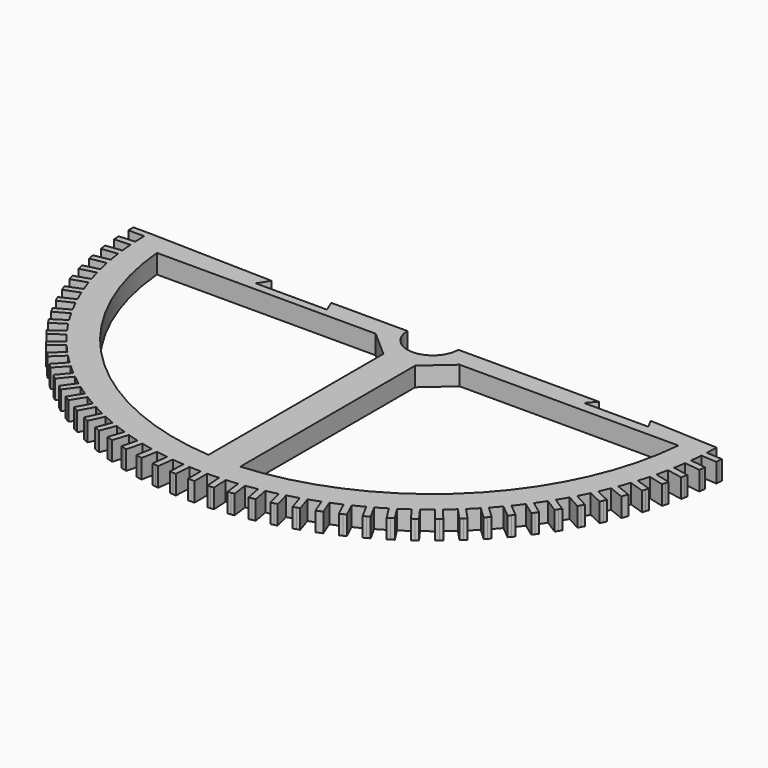
from build123d import *

# Parameters (mm, degrees)
F1_DEPTH = 3


with BuildPart() as f1:
    # F0 (on Top) → F1 (new body)
    with BuildSketch(Plane.XY):
        with BuildLine():
            Line((-25.372492, 0), (-44.997222, 0.5))
            ThreePointArc((-44.997222, 0.5), (-45, 0), (-44.997222, -0.5))
            ThreePointArc((-44.997222, -0.5), (-44.977795, -1.413484), (-44.939826, -2.326386))
            ThreePointArc((-44.939826, -2.326386), (-44.911203, -2.825573), (-44.877035, -3.324412))
            ThreePointArc((-44.877035, -3.324412), (-44.800288, -4.234874), (-44.705072, -5.14359))
            ThreePointArc((-44.705072, -5.14359), (-44.645162, -5.639996), (-44.579739, -6.135705))
            ThreePointArc((-44.579739, -6.135705), (-44.445975, -7.039551), (-44.293888, -7.940495))
            ThreePointArc((-44.293888, -7.940495), (-44.202926, -8.432159), (-44.106507, -8.922782))
            ThreePointArc((-44.106507, -8.922782), (-43.916254, -9.816446), (-43.707897, -10.706063))
            ThreePointArc((-43.707897, -10.706063), (-43.586242, -11.191045), (-43.459207, -11.674646))
            ThreePointArc((-43.459207, -11.674646), (-43.213216, -12.5546), (-42.94941, -13.429378))
            ThreePointArc((-42.94941, -13.429378), (-42.797543, -13.905765), (-42.640393, -14.380435))
            ThreePointArc((-42.640393, -14.380435), (-42.339635, -15.243206), (-42.021421, -16.099694))
            ThreePointArc((-42.021421, -16.099694), (-41.839942, -16.565605), (-41.653297, -17.029471))
            ThreePointArc((-41.653297, -17.029471), (-41.298958, -17.871655), (-40.927594, -18.706472))
            ThreePointArc((-40.927594, -18.706472), (-40.717217, -19.160068), (-40.501814, -19.611299))
            ThreePointArc((-40.501814, -19.611299), (-40.095294, -20.429572), (-39.672243, -21.239424))
            ThreePointArc((-39.672243, -21.239424), (-39.433801, -21.678915), (-39.19049, -22.11573))
            ThreePointArc((-39.19049, -22.11573), (-38.733391, -22.906864), (-38.260325, -23.688553))
            ThreePointArc((-38.260325, -23.688553), (-37.994757, -24.112206), (-37.724498, -24.532881))
            ThreePointArc((-37.724498, -24.532881), (-37.218626, -25.293752), (-36.69741, -26.044195))
            ThreePointArc((-36.69741, -26.044195), (-36.405765, -26.450336), (-36.109625, -26.853212))
            ThreePointArc((-36.109625, -26.853212), (-35.556976, -27.580817), (-34.989668, -28.297052))
            ThreePointArc((-34.989668, -28.297052), (-34.673096, -28.68408), (-34.352244, -29.067565))
            ThreePointArc((-34.352244, -29.067565), (-33.754998, -29.759034), (-33.143837, -30.438234))
            ThreePointArc((-33.143837, -30.438234), (-32.803588, -30.80462), (-32.45929, -31.167203))
            ThreePointArc((-32.45929, -31.167203), (-31.819805, -31.819805), (-31.167203, -32.45929))
            ThreePointArc((-31.167203, -32.45929), (-30.80462, -32.803588), (-30.438234, -33.143837))
            ThreePointArc((-30.438234, -33.143837), (-29.759034, -33.754998), (-29.067565, -34.352244))
            ThreePointArc((-29.067565, -34.352244), (-28.68408, -34.673096), (-28.297052, -34.989668))
            ThreePointArc((-28.297052, -34.989668), (-27.580817, -35.556976), (-26.853212, -36.109625))
            ThreePointArc((-26.853212, -36.109625), (-26.450336, -36.405765), (-26.044195, -36.69741))
            ThreePointArc((-26.044195, -36.69741), (-25.293752, -37.218626), (-24.532881, -37.724498))
            ThreePointArc((-24.532881, -37.724498), (-24.112206, -37.994757), (-23.688553, -38.260325))
            ThreePointArc((-23.688553, -38.260325), (-22.906864, -38.733391), (-22.11573, -39.19049))
            ThreePointArc((-22.11573, -39.19049), (-21.678915, -39.433801), (-21.239424, -39.672243))
            ThreePointArc((-21.239424, -39.672243), (-20.429572, -40.095294), (-19.611299, -40.501814))
            ThreePointArc((-19.611299, -40.501814), (-19.160068, -40.717217), (-18.706472, -40.927594))
            ThreePointArc((-18.706472, -40.927594), (-17.871655, -41.298958), (-17.029471, -41.653297))
            ThreePointArc((-17.029471, -41.653297), (-16.565605, -41.839942), (-16.099694, -42.021421))
            ThreePointArc((-16.099694, -42.021421), (-15.243206, -42.339635), (-14.380435, -42.640393))
            ThreePointArc((-14.380435, -42.640393), (-13.905765, -42.797543), (-13.429378, -42.94941))
            ThreePointArc((-13.429378, -42.94941), (-12.5546, -43.213216), (-11.674646, -43.459207))
            ThreePointArc((-11.674646, -43.459207), (-11.191045, -43.586242), (-10.706063, -43.707897))
            ThreePointArc((-10.706063, -43.707897), (-9.816446, -43.916254), (-8.922782, -44.106507))
            ThreePointArc((-8.922782, -44.106507), (-8.432159, -44.202926), (-7.940495, -44.293888))
            ThreePointArc((-7.940495, -44.293888), (-7.039551, -44.445975), (-6.135705, -44.579739))
            ThreePointArc((-6.135705, -44.579739), (-5.639996, -44.645162), (-5.14359, -44.705072))
            ThreePointArc((-5.14359, -44.705072), (-4.234874, -44.800288), (-3.324412, -44.877035))
            ThreePointArc((-3.324412, -44.877035), (-2.825573, -44.911203), (-2.326386, -44.939826))
            ThreePointArc((-2.326386, -44.939826), (-1.413484, -44.977795), (-0.5, -44.997222))
            ThreePointArc((-0.5, -44.997222), (0, -45), (0.5, -44.997222))
            ThreePointArc((0.5, -44.997222), (1.413484, -44.977795), (2.326386, -44.939826))
            ThreePointArc((2.326386, -44.939826), (2.825573, -44.911203), (3.324412, -44.877035))
            ThreePointArc((3.324412, -44.877035), (4.234874, -44.800288), (5.14359, -44.705072))
            ThreePointArc((5.14359, -44.705072), (5.639996, -44.645162), (6.135705, -44.579739))
            ThreePointArc((6.135705, -44.579739), (7.039551, -44.445975), (7.940495, -44.293888))
            ThreePointArc((7.940495, -44.293888), (8.432159, -44.202926), (8.922782, -44.106507))
            ThreePointArc((8.922782, -44.106507), (9.816446, -43.916254), (10.706063, -43.707897))
            ThreePointArc((10.706063, -43.707897), (11.191045, -43.586242), (11.674646, -43.459207))
            ThreePointArc((11.674646, -43.459207), (12.5546, -43.213216), (13.429378, -42.94941))
            ThreePointArc((13.429378, -42.94941), (13.905765, -42.797543), (14.380435, -42.640393))
            ThreePointArc((14.380435, -42.640393), (15.243206, -42.339635), (16.099694, -42.021421))
            ThreePointArc((16.099694, -42.021421), (16.565605, -41.839942), (17.029471, -41.653297))
            ThreePointArc((17.029471, -41.653297), (17.871655, -41.298958), (18.706472, -40.927594))
            ThreePointArc((18.706472, -40.927594), (19.160068, -40.717217), (19.611299, -40.501814))
            ThreePointArc((19.611299, -40.501814), (20.429572, -40.095294), (21.239424, -39.672243))
            ThreePointArc((21.239424, -39.672243), (21.678915, -39.433801), (22.11573, -39.19049))
            ThreePointArc((22.11573, -39.19049), (22.906864, -38.733391), (23.688553, -38.260325))
            ThreePointArc((23.688553, -38.260325), (24.112206, -37.994757), (24.532881, -37.724498))
            ThreePointArc((24.532881, -37.724498), (25.293752, -37.218626), (26.044195, -36.69741))
            ThreePointArc((26.044195, -36.69741), (26.450336, -36.405765), (26.853212, -36.109625))
            ThreePointArc((26.853212, -36.109625), (27.580817, -35.556976), (28.297052, -34.989668))
            ThreePointArc((28.297052, -34.989668), (28.68408, -34.673096), (29.067565, -34.352244))
            ThreePointArc((29.067565, -34.352244), (29.759034, -33.754998), (30.438234, -33.143837))
            ThreePointArc((30.438234, -33.143837), (30.80462, -32.803588), (31.167203, -32.45929))
            ThreePointArc((31.167203, -32.45929), (31.819805, -31.819805), (32.45929, -31.167203))
            ThreePointArc((32.45929, -31.167203), (32.803588, -30.80462), (33.143837, -30.438234))
            ThreePointArc((33.143837, -30.438234), (33.754998, -29.759034), (34.352244, -29.067565))
            ThreePointArc((34.352244, -29.067565), (34.673096, -28.68408), (34.989668, -28.297052))
            ThreePointArc((34.989668, -28.297052), (35.556976, -27.580817), (36.109625, -26.853212))
            ThreePointArc((36.109625, -26.853212), (36.405765, -26.450336), (36.69741, -26.044195))
            ThreePointArc((36.69741, -26.044195), (37.218626, -25.293752), (37.724498, -24.532881))
            ThreePointArc((37.724498, -24.532881), (37.994757, -24.112206), (38.260325, -23.688553))
            ThreePointArc((38.260325, -23.688553), (38.733391, -22.906864), (39.19049, -22.11573))
            ThreePointArc((39.19049, -22.11573), (39.433801, -21.678915), (39.672243, -21.239424))
            ThreePointArc((39.672243, -21.239424), (40.095294, -20.429572), (40.501814, -19.611299))
            ThreePointArc((40.501814, -19.611299), (40.717217, -19.160068), (40.927594, -18.706472))
            ThreePointArc((40.927594, -18.706472), (41.298958, -17.871655), (41.653297, -17.029471))
            ThreePointArc((41.653297, -17.029471), (41.839942, -16.565605), (42.021421, -16.099694))
            ThreePointArc((42.021421, -16.099694), (42.339635, -15.243206), (42.640393, -14.380435))
            ThreePointArc((42.640393, -14.380435), (42.797543, -13.905765), (42.94941, -13.429378))
            ThreePointArc((42.94941, -13.429378), (43.213216, -12.5546), (43.459207, -11.674646))
            ThreePointArc((43.459207, -11.674646), (43.586242, -11.191045), (43.707897, -10.706063))
            ThreePointArc((43.707897, -10.706063), (43.916254, -9.816446), (44.106507, -8.922782))
            ThreePointArc((44.106507, -8.922782), (44.202926, -8.432159), (44.293888, -7.940495))
            ThreePointArc((44.293888, -7.940495), (44.445975, -7.039551), (44.579739, -6.135705))
            ThreePointArc((44.579739, -6.135705), (44.645162, -5.639996), (44.705072, -5.14359))
            ThreePointArc((44.705072, -5.14359), (44.800288, -4.234874), (44.877035, -3.324412))
            ThreePointArc((44.877035, -3.324412), (44.911203, -2.825573), (44.939826, -2.326386))
            ThreePointArc((44.939826, -2.326386), (44.977795, -1.413484), (44.997222, -0.5))
            Line((44.997222, -0.5), (34.223758, 0))
            Line((34.223758, 0), (35.025112, -1.40535))
            Line((35.025112, -1.40535), (24.885764, -1.40535))
            Line((24.885764, -1.40535), (26.098117, 0))
            Line((26.098117, 0), (4, 0))
            ThreePointArc((4, 0), (0, -4), (-4, 0))
            Line((-4, 0), (-15.9973, 0))
            Line((-15.9973, 0), (-15.265819, -1.740639))
            Line((-15.265819, -1.740639), (-26.466612, -1.740639))
            Line((-26.466612, -1.740639), (-25.372492, 0))
        make_face()
        with BuildLine():
            Line((-40.997222, -3), (-6.6, -3))
            Line((-6.6, -3), (-2.5, -6.6))
            Line((-2.5, -6.6), (-2.5, -41))
            ThreePointArc((-2.5, -41), (-28.724019, -29.06668), (-40.997222, -3))
        make_face(mode=Mode.SUBTRACT)
        with BuildLine():
            Line((2.5, -41), (2.5, -6.6))
            Line((2.5, -6.6), (6.6, -3))
            Line((6.6, -3), (40.997222, -3))
            ThreePointArc((40.997222, -3), (28.724019, -29.06668), (2.5, -41))
        make_face(mode=Mode.SUBTRACT)
        with BuildLine():
            ThreePointArc((-44.997222, -0.5), (-45, 0), (-44.997222, 0.5))
            Line((-44.997222, 0.5), (-47.5, 0.5))
            Line((-47.5, 0.5), (-47.5, 0))
            Line((-47.5, 0), (-47.5, -0.5))
            Line((-47.5, -0.5), (-44.997222, -0.5))
        make_face()
        with BuildLine():
            ThreePointArc((-44.877035, -3.324412), (-44.911203, -2.825573), (-44.939826, -2.326386))
            Line((-44.939826, -2.326386), (-47.437665, -2.483536))
            Line((-47.437665, -2.483536), (-47.40627, -2.98255))
            Line((-47.40627, -2.98255), (-47.374874, -3.481563))
            Line((-47.374874, -3.481563), (-44.877035, -3.324412))
        make_face()
        with BuildLine():
            ThreePointArc((-44.579739, -6.135705), (-44.645162, -5.639996), (-44.705072, -5.14359))
            Line((-44.705072, -5.14359), (-47.188115, -5.457271))
            Line((-47.188115, -5.457271), (-47.125448, -5.953329))
            Line((-47.125448, -5.953329), (-47.062782, -6.449386))
            Line((-47.062782, -6.449386), (-44.579739, -6.135705))
        make_face()
        with BuildLine():
            ThreePointArc((-44.106507, -8.922782), (-44.202926, -8.432159), (-44.293888, -7.940495))
            Line((-44.293888, -7.940495), (-46.752335, -8.409469))
            Line((-46.752335, -8.409469), (-46.658644, -8.900612))
            Line((-46.658644, -8.900612), (-46.564954, -9.391756))
            Line((-46.564954, -9.391756), (-44.106507, -8.922782))
        make_face()
        with BuildLine():
            ThreePointArc((-43.459207, -11.674646), (-43.586242, -11.191045), (-43.707897, -10.706063))
            Line((-43.707897, -10.706063), (-46.132045, -11.328478))
            Line((-46.132045, -11.328478), (-46.0077, -11.81277))
            Line((-46.0077, -11.81277), (-45.883355, -12.297061))
            Line((-45.883355, -12.297061), (-43.459207, -11.674646))
        make_face()
        with BuildLine():
            ThreePointArc((-42.640393, -14.380435), (-42.797543, -13.905765), (-42.94941, -13.429378))
            Line((-42.94941, -13.429378), (-45.329693, -14.202779))
            Line((-45.329693, -14.202779), (-45.175185, -14.678307))
            Line((-45.175185, -14.678307), (-45.020676, -15.153835))
            Line((-45.020676, -15.153835), (-42.640393, -14.380435))
        make_face()
        with BuildLine():
            ThreePointArc((-41.653297, -17.029471), (-41.839942, -16.565605), (-42.021421, -16.099694))
            Line((-42.021421, -16.099694), (-44.348445, -17.021028))
            Line((-44.348445, -17.021028), (-44.164383, -17.485916))
            Line((-44.164383, -17.485916), (-43.980321, -17.950804))
            Line((-43.980321, -17.950804), (-41.653297, -17.029471))
        make_face()
        with BuildLine():
            Line((47.437665, -2.483536), (44.939826, -2.326386))
            ThreePointArc((44.939826, -2.326386), (44.911203, -2.825573), (44.877035, -3.324412))
            Line((44.877035, -3.324412), (47.374874, -3.481563))
            Line((47.374874, -3.481563), (47.40627, -2.98255))
            Line((47.40627, -2.98255), (47.437665, -2.483536))
        make_face()
        with BuildLine():
            ThreePointArc((-40.501814, -19.611299), (-40.717217, -19.160068), (-40.927594, -18.706472))
            Line((-40.927594, -18.706472), (-43.192175, -19.772103))
            Line((-43.192175, -19.772103), (-42.979285, -20.224516))
            Line((-42.979285, -20.224516), (-42.766395, -20.67693))
            Line((-42.766395, -20.67693), (-40.501814, -19.611299))
        make_face()
        with BuildLine():
            Line((47.188115, -5.457271), (44.705072, -5.14359))
            ThreePointArc((44.705072, -5.14359), (44.645162, -5.639996), (44.579739, -6.135705))
            Line((44.579739, -6.135705), (47.062782, -6.449386))
            Line((47.062782, -6.449386), (47.125448, -5.953329))
            Line((47.125448, -5.953329), (47.188115, -5.457271))
        make_face()
        with BuildLine():
            ThreePointArc((-39.19049, -22.11573), (-39.433801, -21.678915), (-39.672243, -21.239424))
            Line((-39.672243, -21.239424), (-41.865444, -22.445146))
            Line((-41.865444, -22.445146), (-41.624567, -22.8833))
            Line((-41.624567, -22.8833), (-41.38369, -23.321453))
            Line((-41.38369, -23.321453), (-39.19049, -22.11573))
        make_face()
        with BuildLine():
            Line((46.752335, -8.409469), (44.293888, -7.940495))
            ThreePointArc((44.293888, -7.940495), (44.202926, -8.432159), (44.106507, -8.922782))
            Line((44.106507, -8.922782), (46.564954, -9.391756))
            Line((46.564954, -9.391756), (46.658644, -8.900612))
            Line((46.658644, -8.900612), (46.752335, -8.409469))
        make_face()
        with BuildLine():
            ThreePointArc((-37.724498, -24.532881), (-37.994757, -24.112206), (-38.260325, -23.688553))
            Line((-38.260325, -23.688553), (-40.37349, -25.029609))
            Line((-40.37349, -25.029609), (-40.105576, -25.451773))
            Line((-40.105576, -25.451773), (-39.837663, -25.873937))
            Line((-39.837663, -25.873937), (-37.724498, -24.532881))
        make_face()
        with BuildLine():
            Line((46.132045, -11.328478), (43.707897, -10.706063))
            ThreePointArc((43.707897, -10.706063), (43.586242, -11.191045), (43.459207, -11.674646))
            Line((43.459207, -11.674646), (45.883355, -12.297061))
            Line((45.883355, -12.297061), (46.0077, -11.81277))
            Line((46.0077, -11.81277), (46.132045, -11.328478))
        make_face()
        with BuildLine():
            ThreePointArc((-36.109625, -26.853212), (-36.405765, -26.450336), (-36.69741, -26.044195))
            Line((-36.69741, -26.044195), (-38.7222, -27.515291))
            Line((-38.7222, -27.515291), (-38.428307, -27.919799))
            Line((-38.428307, -27.919799), (-38.134415, -28.324308))
            Line((-38.134415, -28.324308), (-36.109625, -26.853212))
        make_face()
        with BuildLine():
            Line((45.329693, -14.202779), (42.94941, -13.429378))
            ThreePointArc((42.94941, -13.429378), (42.797543, -13.905765), (42.640393, -14.380435))
            Line((42.640393, -14.380435), (45.020676, -15.153835))
            Line((45.020676, -15.153835), (45.175185, -14.678307))
            Line((45.175185, -14.678307), (45.329693, -14.202779))
        make_face()
        with BuildLine():
            ThreePointArc((-34.352244, -29.067565), (-34.673096, -28.68408), (-34.989668, -28.297052))
            Line((-34.989668, -28.297052), (-36.918091, -29.892383))
            Line((-36.918091, -29.892383), (-36.599379, -30.27764))
            Line((-36.599379, -30.27764), (-36.280667, -30.662896))
            Line((-36.280667, -30.662896), (-34.352244, -29.067565))
        make_face()
        with BuildLine():
            Line((44.348445, -17.021028), (42.021421, -16.099694))
            ThreePointArc((42.021421, -16.099694), (41.839942, -16.565605), (41.653297, -17.029471))
            Line((41.653297, -17.029471), (43.980321, -17.950804))
            Line((43.980321, -17.950804), (44.164383, -17.485916))
            Line((44.164383, -17.485916), (44.348445, -17.021028))
        make_face()
        with BuildLine():
            ThreePointArc((-32.45929, -31.167203), (-32.803588, -30.80462), (-33.143837, -30.438234))
            Line((-33.143837, -30.438234), (-34.968283, -32.151503))
            Line((-34.968283, -32.151503), (-34.62601, -32.515988))
            Line((-34.62601, -32.515988), (-34.283736, -32.880472))
            Line((-34.283736, -32.880472), (-32.45929, -31.167203))
        make_face()
        with BuildLine():
            Line((43.192175, -19.772103), (40.927594, -18.706472))
            ThreePointArc((40.927594, -18.706472), (40.717217, -19.160068), (40.501814, -19.611299))
            Line((40.501814, -19.611299), (42.766395, -20.67693))
            Line((42.766395, -20.67693), (42.979285, -20.224516))
            Line((42.979285, -20.224516), (43.192175, -19.772103))
        make_face()
        with BuildLine():
            ThreePointArc((-30.438234, -33.143837), (-30.80462, -32.803588), (-31.167203, -32.45929))
            Line((-31.167203, -32.45929), (-32.880472, -34.283736))
            Line((-32.880472, -34.283736), (-32.515988, -34.62601))
            Line((-32.515988, -34.62601), (-32.151503, -34.968283))
            Line((-32.151503, -34.968283), (-30.438234, -33.143837))
        make_face()
        with BuildLine():
            Line((41.865444, -22.445146), (39.672243, -21.239424))
            ThreePointArc((39.672243, -21.239424), (39.433801, -21.678915), (39.19049, -22.11573))
            Line((39.19049, -22.11573), (41.38369, -23.321453))
            Line((41.38369, -23.321453), (41.624567, -22.8833))
            Line((41.624567, -22.8833), (41.865444, -22.445146))
        make_face()
        with BuildLine():
            ThreePointArc((-28.297052, -34.989668), (-28.68408, -34.673096), (-29.067565, -34.352244))
            Line((-29.067565, -34.352244), (-30.662896, -36.280667))
            Line((-30.662896, -36.280667), (-30.27764, -36.599379))
            Line((-30.27764, -36.599379), (-29.892383, -36.918091))
            Line((-29.892383, -36.918091), (-28.297052, -34.989668))
        make_face()
        with BuildLine():
            Line((40.37349, -25.029609), (38.260325, -23.688553))
            ThreePointArc((38.260325, -23.688553), (37.994757, -24.112206), (37.724498, -24.532881))
            Line((37.724498, -24.532881), (39.837663, -25.873937))
            Line((39.837663, -25.873937), (40.105576, -25.451773))
            Line((40.105576, -25.451773), (40.37349, -25.029609))
        make_face()
        with BuildLine():
            ThreePointArc((-26.044195, -36.69741), (-26.450336, -36.405765), (-26.853212, -36.109625))
            Line((-26.853212, -36.109625), (-28.324308, -38.134415))
            Line((-28.324308, -38.134415), (-27.919799, -38.428307))
            Line((-27.919799, -38.428307), (-27.515291, -38.7222))
            Line((-27.515291, -38.7222), (-26.044195, -36.69741))
        make_face()
        with BuildLine():
            Line((38.7222, -27.515291), (36.69741, -26.044195))
            ThreePointArc((36.69741, -26.044195), (36.405765, -26.450336), (36.109625, -26.853212))
            Line((36.109625, -26.853212), (38.134415, -28.324308))
            Line((38.134415, -28.324308), (38.428307, -27.919799))
            Line((38.428307, -27.919799), (38.7222, -27.515291))
        make_face()
        with BuildLine():
            ThreePointArc((-23.688553, -38.260325), (-24.112206, -37.994757), (-24.532881, -37.724498))
            Line((-24.532881, -37.724498), (-25.873937, -39.837663))
            Line((-25.873937, -39.837663), (-25.451773, -40.105576))
            Line((-25.451773, -40.105576), (-25.029609, -40.37349))
            Line((-25.029609, -40.37349), (-23.688553, -38.260325))
        make_face()
        with BuildLine():
            Line((36.918091, -29.892383), (34.989668, -28.297052))
            ThreePointArc((34.989668, -28.297052), (34.673096, -28.68408), (34.352244, -29.067565))
            Line((34.352244, -29.067565), (36.280667, -30.662896))
            Line((36.280667, -30.662896), (36.599379, -30.27764))
            Line((36.599379, -30.27764), (36.918091, -29.892383))
        make_face()
        with BuildLine():
            ThreePointArc((-21.239424, -39.672243), (-21.678915, -39.433801), (-22.11573, -39.19049))
            Line((-22.11573, -39.19049), (-23.321453, -41.38369))
            Line((-23.321453, -41.38369), (-22.8833, -41.624567))
            Line((-22.8833, -41.624567), (-22.445146, -41.865444))
            Line((-22.445146, -41.865444), (-21.239424, -39.672243))
        make_face()
        with BuildLine():
            Line((34.968283, -32.151503), (33.143837, -30.438234))
            ThreePointArc((33.143837, -30.438234), (32.803588, -30.80462), (32.45929, -31.167203))
            Line((32.45929, -31.167203), (34.283736, -32.880472))
            Line((34.283736, -32.880472), (34.62601, -32.515988))
            Line((34.62601, -32.515988), (34.968283, -32.151503))
        make_face()
        with BuildLine():
            ThreePointArc((-18.706472, -40.927594), (-19.160068, -40.717217), (-19.611299, -40.501814))
            Line((-19.611299, -40.501814), (-20.67693, -42.766395))
            Line((-20.67693, -42.766395), (-20.224516, -42.979285))
            Line((-20.224516, -42.979285), (-19.772103, -43.192175))
            Line((-19.772103, -43.192175), (-18.706472, -40.927594))
        make_face()
        with BuildLine():
            Line((32.880472, -34.283736), (31.167203, -32.45929))
            ThreePointArc((31.167203, -32.45929), (30.80462, -32.803588), (30.438234, -33.143837))
            Line((30.438234, -33.143837), (32.151503, -34.968283))
            Line((32.151503, -34.968283), (32.515988, -34.62601))
            Line((32.515988, -34.62601), (32.880472, -34.283736))
        make_face()
        with BuildLine():
            ThreePointArc((-16.099694, -42.021421), (-16.565605, -41.839942), (-17.029471, -41.653297))
            Line((-17.029471, -41.653297), (-17.950804, -43.980321))
            Line((-17.950804, -43.980321), (-17.485916, -44.164383))
            Line((-17.485916, -44.164383), (-17.021028, -44.348445))
            Line((-17.021028, -44.348445), (-16.099694, -42.021421))
        make_face()
        with BuildLine():
            Line((30.662896, -36.280667), (29.067565, -34.352244))
            ThreePointArc((29.067565, -34.352244), (28.68408, -34.673096), (28.297052, -34.989668))
            Line((28.297052, -34.989668), (29.892383, -36.918091))
            Line((29.892383, -36.918091), (30.27764, -36.599379))
            Line((30.27764, -36.599379), (30.662896, -36.280667))
        make_face()
        with BuildLine():
            ThreePointArc((-13.429378, -42.94941), (-13.905765, -42.797543), (-14.380435, -42.640393))
            Line((-14.380435, -42.640393), (-15.153835, -45.020676))
            Line((-15.153835, -45.020676), (-14.678307, -45.175185))
            Line((-14.678307, -45.175185), (-14.202779, -45.329693))
            Line((-14.202779, -45.329693), (-13.429378, -42.94941))
        make_face()
        with BuildLine():
            Line((28.324308, -38.134415), (26.853212, -36.109625))
            ThreePointArc((26.853212, -36.109625), (26.450336, -36.405765), (26.044195, -36.69741))
            Line((26.044195, -36.69741), (27.515291, -38.7222))
            Line((27.515291, -38.7222), (27.919799, -38.428307))
            Line((27.919799, -38.428307), (28.324308, -38.134415))
        make_face()
        with BuildLine():
            ThreePointArc((-10.706063, -43.707897), (-11.191045, -43.586242), (-11.674646, -43.459207))
            Line((-11.674646, -43.459207), (-12.297061, -45.883355))
            Line((-12.297061, -45.883355), (-11.81277, -46.0077))
            Line((-11.81277, -46.0077), (-11.328478, -46.132045))
            Line((-11.328478, -46.132045), (-10.706063, -43.707897))
        make_face()
        with BuildLine():
            Line((25.873937, -39.837663), (24.532881, -37.724498))
            ThreePointArc((24.532881, -37.724498), (24.112206, -37.994757), (23.688553, -38.260325))
            Line((23.688553, -38.260325), (25.029609, -40.37349))
            Line((25.029609, -40.37349), (25.451773, -40.105576))
            Line((25.451773, -40.105576), (25.873937, -39.837663))
        make_face()
        with BuildLine():
            ThreePointArc((-7.940495, -44.293888), (-8.432159, -44.202926), (-8.922782, -44.106507))
            Line((-8.922782, -44.106507), (-9.391756, -46.564954))
            Line((-9.391756, -46.564954), (-8.900612, -46.658644))
            Line((-8.900612, -46.658644), (-8.409469, -46.752335))
            Line((-8.409469, -46.752335), (-7.940495, -44.293888))
        make_face()
        with BuildLine():
            Line((23.321453, -41.38369), (22.11573, -39.19049))
            ThreePointArc((22.11573, -39.19049), (21.678915, -39.433801), (21.239424, -39.672243))
            Line((21.239424, -39.672243), (22.445146, -41.865444))
            Line((22.445146, -41.865444), (22.8833, -41.624567))
            Line((22.8833, -41.624567), (23.321453, -41.38369))
        make_face()
        with BuildLine():
            ThreePointArc((-5.14359, -44.705072), (-5.639996, -44.645162), (-6.135705, -44.579739))
            Line((-6.135705, -44.579739), (-6.449386, -47.062782))
            Line((-6.449386, -47.062782), (-5.953329, -47.125448))
            Line((-5.953329, -47.125448), (-5.457271, -47.188115))
            Line((-5.457271, -47.188115), (-5.14359, -44.705072))
        make_face()
        with BuildLine():
            Line((20.67693, -42.766395), (19.611299, -40.501814))
            ThreePointArc((19.611299, -40.501814), (19.160068, -40.717217), (18.706472, -40.927594))
            Line((18.706472, -40.927594), (19.772103, -43.192175))
            Line((19.772103, -43.192175), (20.224516, -42.979285))
            Line((20.224516, -42.979285), (20.67693, -42.766395))
        make_face()
        with BuildLine():
            ThreePointArc((-2.326386, -44.939826), (-2.825573, -44.911203), (-3.324412, -44.877035))
            Line((-3.324412, -44.877035), (-3.481563, -47.374874))
            Line((-3.481563, -47.374874), (-2.98255, -47.40627))
            Line((-2.98255, -47.40627), (-2.483536, -47.437665))
            Line((-2.483536, -47.437665), (-2.326386, -44.939826))
        make_face()
        with BuildLine():
            Line((17.950804, -43.980321), (17.029471, -41.653297))
            ThreePointArc((17.029471, -41.653297), (16.565605, -41.839942), (16.099694, -42.021421))
            Line((16.099694, -42.021421), (17.021028, -44.348445))
            Line((17.021028, -44.348445), (17.485916, -44.164383))
            Line((17.485916, -44.164383), (17.950804, -43.980321))
        make_face()
        with BuildLine():
            ThreePointArc((0.5, -44.997222), (0, -45), (-0.5, -44.997222))
            Line((-0.5, -44.997222), (-0.5, -47.5))
            Line((-0.5, -47.5), (0, -47.5))
            Line((0, -47.5), (0.5, -47.5))
            Line((0.5, -47.5), (0.5, -44.997222))
        make_face()
        with BuildLine():
            Line((15.153835, -45.020676), (14.380435, -42.640393))
            ThreePointArc((14.380435, -42.640393), (13.905765, -42.797543), (13.429378, -42.94941))
            Line((13.429378, -42.94941), (14.202779, -45.329693))
            Line((14.202779, -45.329693), (14.678307, -45.175185))
            Line((14.678307, -45.175185), (15.153835, -45.020676))
        make_face()
        with BuildLine():
            ThreePointArc((3.324412, -44.877035), (2.825573, -44.911203), (2.326386, -44.939826))
            Line((2.326386, -44.939826), (2.483536, -47.437665))
            Line((2.483536, -47.437665), (2.98255, -47.40627))
            Line((2.98255, -47.40627), (3.481563, -47.374874))
            Line((3.481563, -47.374874), (3.324412, -44.877035))
        make_face()
        with BuildLine():
            Line((12.297061, -45.883355), (11.674646, -43.459207))
            ThreePointArc((11.674646, -43.459207), (11.191045, -43.586242), (10.706063, -43.707897))
            Line((10.706063, -43.707897), (11.328478, -46.132045))
            Line((11.328478, -46.132045), (11.81277, -46.0077))
            Line((11.81277, -46.0077), (12.297061, -45.883355))
        make_face()
        with BuildLine():
            ThreePointArc((6.135705, -44.579739), (5.639996, -44.645162), (5.14359, -44.705072))
            Line((5.14359, -44.705072), (5.457271, -47.188115))
            Line((5.457271, -47.188115), (5.953329, -47.125448))
            Line((5.953329, -47.125448), (6.449386, -47.062782))
            Line((6.449386, -47.062782), (6.135705, -44.579739))
        make_face()
        with BuildLine():
            Line((9.391756, -46.564954), (8.922782, -44.106507))
            ThreePointArc((8.922782, -44.106507), (8.432159, -44.202926), (7.940495, -44.293888))
            Line((7.940495, -44.293888), (8.409469, -46.752335))
            Line((8.409469, -46.752335), (8.900612, -46.658644))
            Line((8.900612, -46.658644), (9.391756, -46.564954))
        make_face()
    extrude(amount=F1_DEPTH)


solid = f1.part
